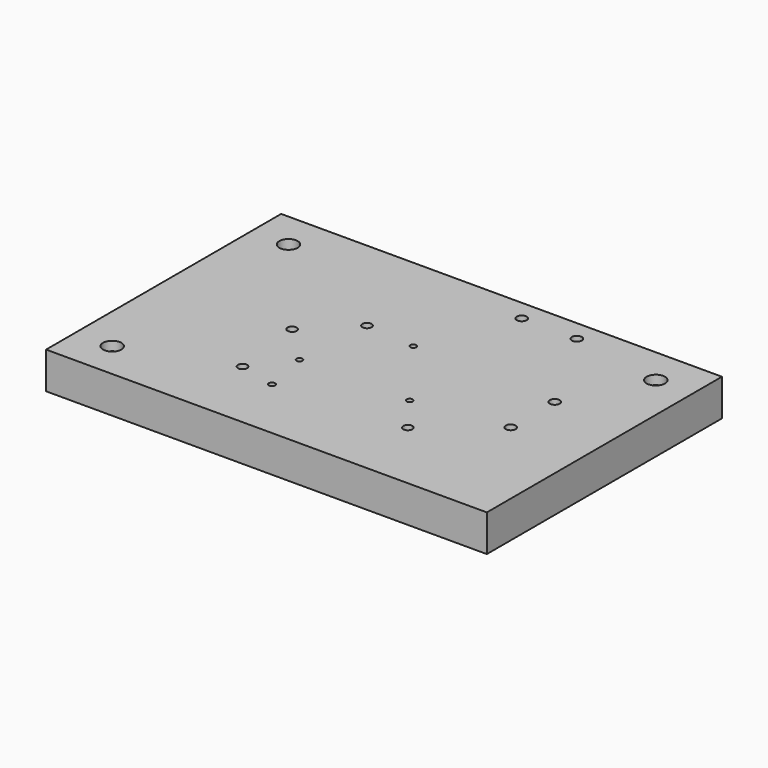
from build123d import *

# Parameters (mm, degrees)
F0_W      = 304.8
F0_H      = 203.2
F1_DEPTH  = 25.4
F2_R      = 6.35
F3_DEPTH  = 6.35
F4_R      = 3.175
F5_DEPTH  = 19.05
F6_R      = 2.0701
F7_DEPTH  = 13.0302
F8_R      = 3.429
F9_DEPTH  = 12.7
F10_R     = 3.175
F11_DEPTH = 6.35
F12_R     = 3.429
F13_DEPTH = 12.7
F14_R     = 2.159
F15_DEPTH = 12.7
F16_R     = 6.35
F17_DEPTH = 25.4


with BuildPart() as f1:
    # F0 (on Top) → F1 (new body)
    with BuildSketch(Plane.XY):
        Rectangle(F0_W, F0_H)
    extrude(amount=F1_DEPTH)

    # F2 (on face) → F3 (cut)
    with BuildSketch(Plane.XY.offset(25.4)):
        with Locations((-127, -76.2)):
            Circle(F2_R)
        with Locations((127, 76.2)):
            Circle(F2_R)
    extrude(amount=-F3_DEPTH, mode=Mode.SUBTRACT)

    # F4 (on face) → F5 (cut)
    with BuildSketch(Plane.XY.offset(25.4)):
        with Locations((-57.15, -50.8)):
            Circle(F4_R)
        with Locations((57.15, -50.8)):
            Circle(F4_R)
        with Locations((-63.5, 0)):
            Circle(F4_R)
    extrude(amount=-F5_DEPTH, mode=Mode.SUBTRACT)

    # F6 (on face) → F7 (cut)
    with BuildSketch(Plane.XY.offset(25.4)):
        with Locations((0, 25.4)):
            Circle(F6_R)
        with Locations((-38.1, -25.4)):
            Circle(F6_R)
        with Locations((38.1, -25.4)):
            Circle(F6_R)
    extrude(amount=-F7_DEPTH, mode=Mode.SUBTRACT)

    # F8 (on face) → F9 (cut)
    with BuildSketch(Plane.XY.offset(25.4)):
        with Locations((25.4, 87.3252)):
            Circle(F8_R)
        with Locations((63.5, 87.3252)):
            Circle(F8_R)
    extrude(amount=-F9_DEPTH, mode=Mode.SUBTRACT)

    # F10 (on face) → F11 (cut)
    with BuildSketch(Plane.XY.offset(25.4)):
        with Locations((-34.6202, 28.575)):
            Circle(F10_R)
    extrude(amount=-F11_DEPTH, mode=Mode.SUBTRACT)

    # F12 (on face) → F13 (cut)
    with BuildSketch(Plane.XY.offset(25.4)):
        with Locations((100.33, 22.225)):
            Circle(F12_R)
        with Locations((100.33, -15.875)):
            Circle(F12_R)
    extrude(amount=-F13_DEPTH, mode=Mode.SUBTRACT)

    # F14 (on face) → F15 (cut)
    with BuildSketch(Plane.XY.offset(25.4)):
        with Locations((-31.75, -57.15)):
            Circle(F14_R)
    extrude(amount=-F15_DEPTH, mode=Mode.SUBTRACT)

    # F16 (on face) → F17 (cut)
    with BuildSketch(Plane.XY.offset(25.4)):
        with Locations((-127, 76.2)):
            Circle(F16_R)
    extrude(amount=-F17_DEPTH, mode=Mode.SUBTRACT)


solid = f1.part
